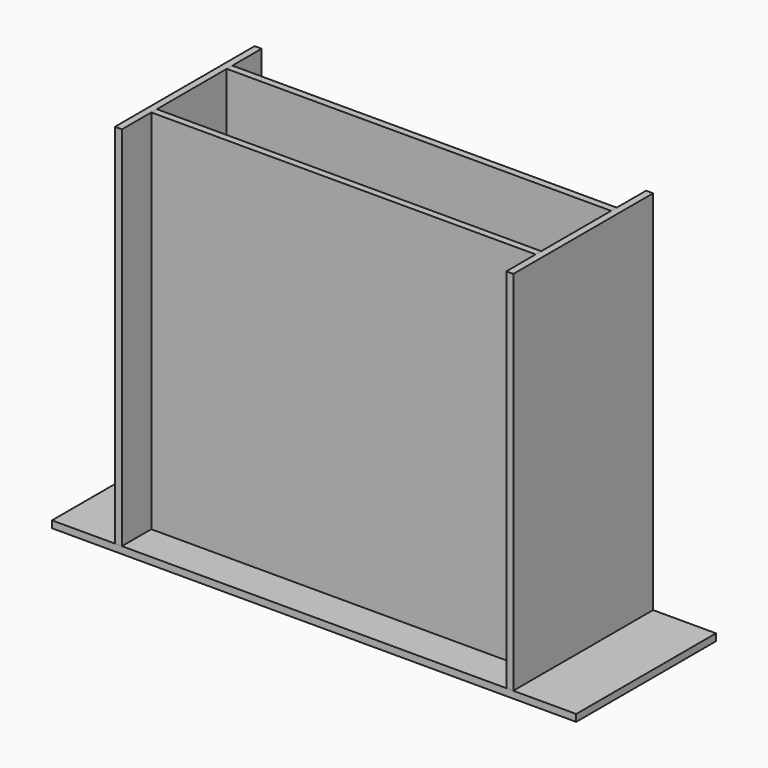
from build123d import *

# Parameters (mm, degrees)
F0_W     = 200
F0_H     = 100
F0_W_2   = 50
F3_DEPTH = 4
F5_DEPTH = 210
F4_W     = 220
F4_H     = 4
F6_DEPTH = 210
F7_DEPTH = 210
F8_DEPTH = 210


with BuildPart() as f3:
    # F0 (on Top) → F3 (new body)
    with BuildSketch(Plane.XY):
        Rectangle(F0_W, F0_H)
        with Locations((125, 0)):
            Rectangle(F0_W_2, F0_H)
        with Locations((-125, 0)):
            Rectangle(F0_W_2, F0_H)
        Rectangle(F0_W, F0_H)
    extrude(amount=F3_DEPTH)


with BuildPart() as f5:
    # F4 (on face) → F5 (new body)
    with BuildSketch(Plane.XY.offset(4)):
        Polygon((110, 25), (110, -25), (110, -29), (110, -50), (114, -50), (114, 50), (110, 50), (110, 29), align=None)
    extrude(amount=F5_DEPTH)


with BuildPart() as f6:
    # F4 (on face) → F6 (new body)
    with BuildSketch(Plane.XY.offset(4)):
        with Locations((0, -27)):
            Rectangle(F4_W, F4_H)
    extrude(amount=F6_DEPTH)


with BuildPart() as f7:
    # F4 (on face) → F7 (new body)
    with BuildSketch(Plane.XY.offset(4)):
        with Locations((0, 27)):
            Rectangle(F4_W, F4_H)
    extrude(amount=F7_DEPTH)


with BuildPart() as f8:
    # F4 (on face) → F8 (new body)
    with BuildSketch(Plane.XY.offset(4)):
        Polygon((-110, -29), (-110, -25), (-110, 25), (-110, 29), (-110, 50), (-114, 50), (-114, -50), (-110, -50), align=None)
    extrude(amount=F8_DEPTH)


solid = Compound([f3.part, f5.part, f6.part, f7.part, f8.part])
